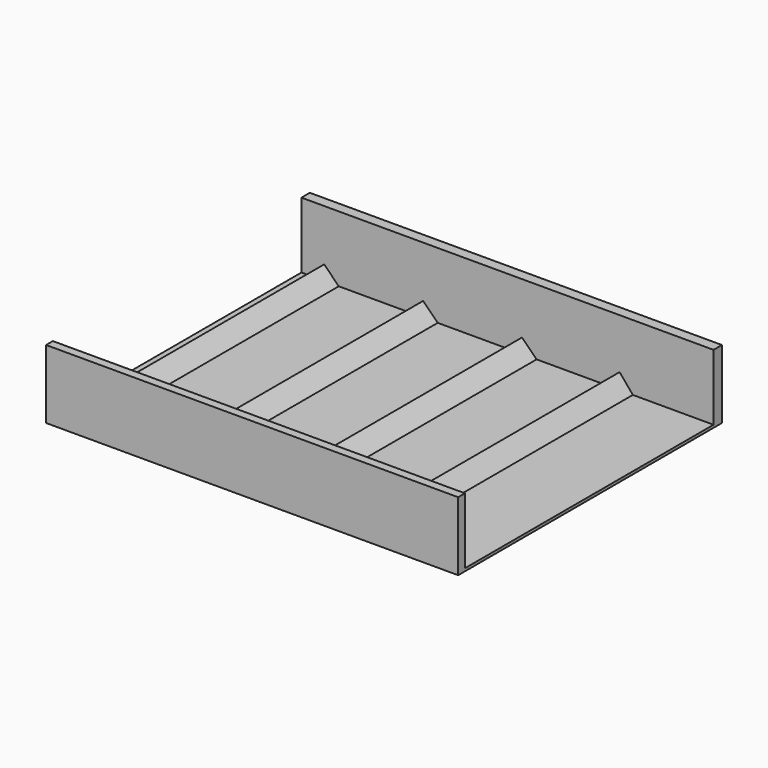
from build123d import *

# Parameters (mm, degrees)
F0_W     = 300
F0_H     = 240
F1_DEPTH = 50
F2_W     = 300
F2_H     = 226.181105
F3_DEPTH = 48
F5_DEPTH = 228.9


with BuildPart() as f1:
    # F0 (on Top) → F1 (new body)
    with BuildSketch(Plane.XY):
        with Locations((14.745144, 69.408495)):
            Rectangle(F0_W, F0_H)
    extrude(amount=F1_DEPTH)

    # F2 (on face) → F3 (cut)
    with BuildSketch(Plane.XY.offset(50)):
        with Locations((14.745144, 68.680338)):
            Rectangle(F2_W, F2_H)
    extrude(amount=-F3_DEPTH, mode=Mode.SUBTRACT)

    # F4 (on face) → F5 (join)
    with BuildSketch(Plane.XZ.offset(-181.770891)):
        Polygon((-118.691458, 12.606602), (-129.298059, 2), (-108.084856, 2), align=None)
        Polygon((14.745144, 2), (35.958348, 2), (25.351746, 12.606602), align=None)
        Polygon((86.758348, 2), (106.004746, 2), (96.381547, 13.506261), align=None)
        Polygon((-57.284856, 2), (-36.054856, 2), (-46.669856, 12.598197), align=None)
    extrude(amount=F5_DEPTH)


solid = f1.part
